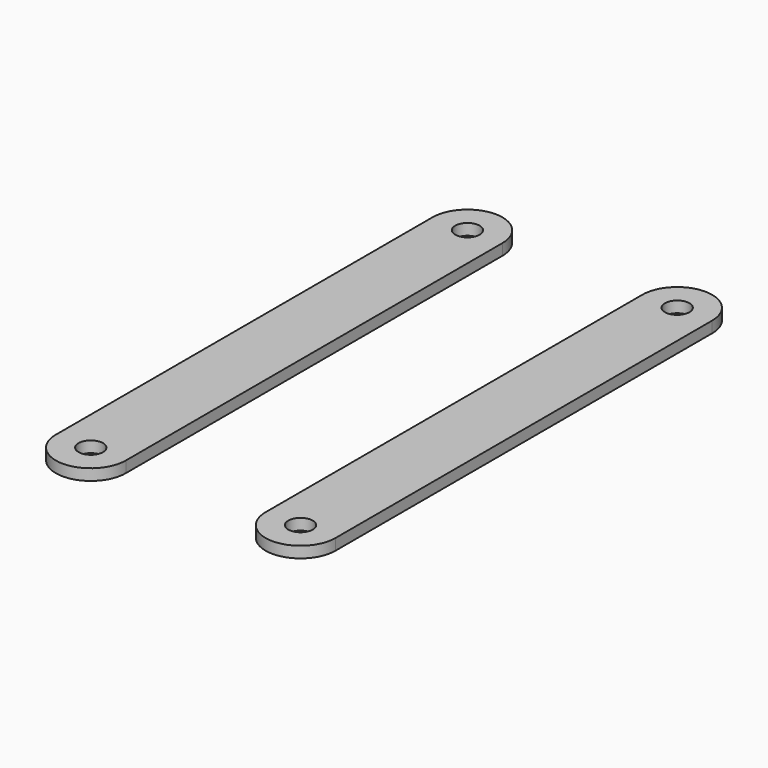
from build123d import *

# Parameters (mm, degrees)
CYLINDER007_R     = 1.75
CYLINDER007_DEPTH = 1.6
CYLINDER006_R     = 1.75
CYLINDER006_DEPTH = 1.6
CYLINDER005_R     = 5
CYLINDER005_DEPTH = 1.6
CYLINDER004_R     = 5
CYLINDER004_DEPTH = 1.6
CUBE005_W         = 10
CUBE005_H         = 67.34
CUBE005_DEPTH     = 1.6
CYLINDER003_R     = 1.75
CYLINDER003_DEPTH = 1.6
CYLINDER002_R     = 1.75
CYLINDER002_DEPTH = 1.6
CYLINDER001_R     = 5
CYLINDER001_DEPTH = 1.6
CYLINDER_R        = 5
CYLINDER_DEPTH    = 1.6
CUBE004_W         = 10
CUBE004_H         = 67.34
CUBE004_DEPTH     = 1.6


with BuildPart() as cylinder007:
    # cylinder007 → cylinder007 (new body)
    with BuildSketch(Plane(origin=(0, 33.67, -0.8), x_dir=(1, 0, 0), z_dir=(0, 0, 1))):
        Circle(CYLINDER007_R)
    extrude(amount=CYLINDER007_DEPTH)


with BuildPart() as group003:
    # cylinder006 → cylinder006 (new body)
    with BuildSketch(Plane(origin=(0, -33.67, -0.8), x_dir=(1, 0, 0), z_dir=(0, 0, 1))):
        Circle(CYLINDER006_R)
    extrude(amount=CYLINDER006_DEPTH)

    # Group003: union cylinder007
    add(cylinder007.part)


with BuildPart() as cylinder005:
    # cylinder005 → cylinder005 (new body)
    with BuildSketch(Plane(origin=(0, 33.67, -0.8), x_dir=(1, 0, 0), z_dir=(0, 0, 1))):
        Circle(CYLINDER005_R)
    extrude(amount=CYLINDER005_DEPTH)


with BuildPart() as group002:
    # cylinder004 → cylinder004 (new body)
    with BuildSketch(Plane(origin=(0, -33.67, -0.8), x_dir=(1, 0, 0), z_dir=(0, 0, 1))):
        Circle(CYLINDER004_R)
    extrude(amount=CYLINDER004_DEPTH)

    # Group002: union cylinder005
    add(cylinder005.part)


with BuildPart() as difference002:
    # cube005 → cube005 (new body)
    with BuildSketch(Plane(origin=(-5, -33.67, -0.8), x_dir=(1, 0, 0), z_dir=(0, 0, 1))):
        with Locations((5, 33.67)):
            Rectangle(CUBE005_W, CUBE005_H)
    extrude(amount=CUBE005_DEPTH)

    # union002: union Group002
    add(group002.part)

    # difference002: cut Group003
    add(group003.part, mode=Mode.SUBTRACT)


with BuildPart() as difference002_1:
    # difference002 placement: moved
    add(difference002.part.moved(Location((15, 0, 0))))


with BuildPart() as cylinder003:
    # cylinder003 → cylinder003 (new body)
    with BuildSketch(Plane(origin=(0, 33.67, -0.8), x_dir=(1, 0, 0), z_dir=(0, 0, 1))):
        Circle(CYLINDER003_R)
    extrude(amount=CYLINDER003_DEPTH)


with BuildPart() as group001:
    # cylinder002 → cylinder002 (new body)
    with BuildSketch(Plane(origin=(0, -33.67, -0.8), x_dir=(1, 0, 0), z_dir=(0, 0, 1))):
        Circle(CYLINDER002_R)
    extrude(amount=CYLINDER002_DEPTH)

    # Group001: union cylinder003
    add(cylinder003.part)


with BuildPart() as cylinder001:
    # cylinder001 → cylinder001 (new body)
    with BuildSketch(Plane(origin=(0, 33.67, -0.8), x_dir=(1, 0, 0), z_dir=(0, 0, 1))):
        Circle(CYLINDER001_R)
    extrude(amount=CYLINDER001_DEPTH)


with BuildPart() as group:
    # cylinder → cylinder (new body)
    with BuildSketch(Plane(origin=(0, -33.67, -0.8), x_dir=(1, 0, 0), z_dir=(0, 0, 1))):
        Circle(CYLINDER_R)
    extrude(amount=CYLINDER_DEPTH)

    # Group: union cylinder001
    add(cylinder001.part)


with BuildPart() as ear_group:
    # cube004 → cube004 (new body)
    with BuildSketch(Plane(origin=(-5, -33.67, -0.8), x_dir=(1, 0, 0), z_dir=(0, 0, 1))):
        with Locations((5, 33.67)):
            Rectangle(CUBE004_W, CUBE004_H)
    extrude(amount=CUBE004_DEPTH)

    # union001: union Group
    add(group.part)

    # difference001: cut Group001
    add(group001.part, mode=Mode.SUBTRACT)


with BuildPart() as ear_group_1:
    # difference001 placement: moved
    add(ear_group.part.moved(Location((-15, 0, 0))))

    # Group004: union difference002
    add(difference002_1.part)


with BuildPart() as ear_group_2:
    # Group004 placement: moved
    add(ear_group_1.part.moved(Location((35.84, 30, 0.8))))


solid = ear_group_2.part
